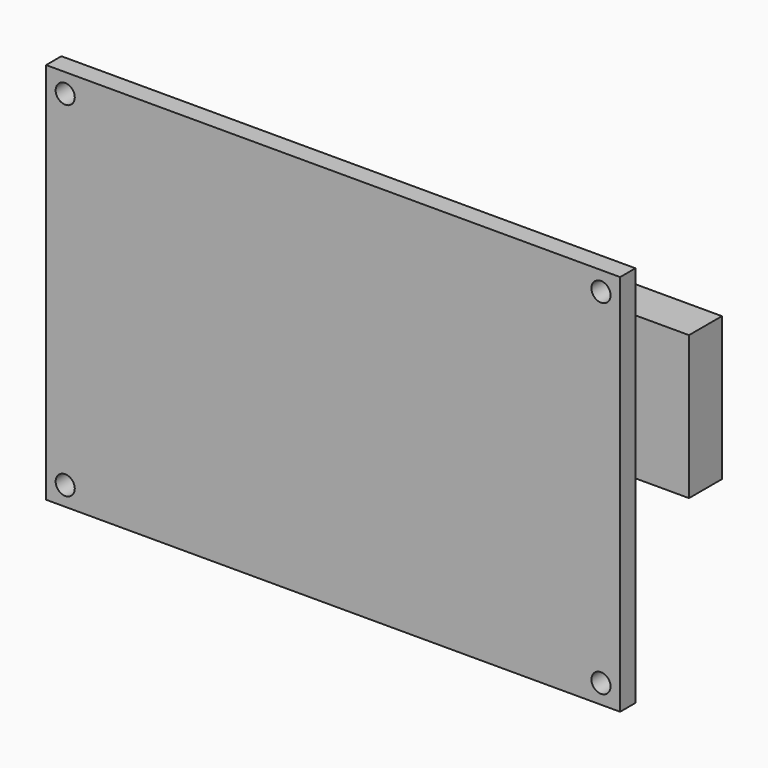
from build123d import *

# Parameters (mm, degrees)
F0_W     = 60
F0_H     = 40
F0_R     = 1
F1_DEPTH = 2
F2_W     = 8.5
F2_H     = 19
F3_DEPTH = 4
F4_W     = 34
F4_H     = 19
F5_DEPTH = 7
F6_W     = 2.5
F6_H     = 15
F6_W_2   = 6.5
F7_DEPTH = 4.3


with BuildPart() as f1:
    # F0 (on Front) → F1 (new body)
    with BuildSketch(Plane.XZ):
        Rectangle(F0_W, F0_H)
        with Locations((-28, -18)):
            Circle(F0_R, mode=Mode.SUBTRACT)
        with Locations((28, -18)):
            Circle(F0_R, mode=Mode.SUBTRACT)
        with Locations((-28, 18)):
            Circle(F0_R, mode=Mode.SUBTRACT)
        with Locations((28, 18)):
            Circle(F0_R, mode=Mode.SUBTRACT)
    extrude(amount=F1_DEPTH)

    # F2 (on face) → F3 (join)
    with BuildSketch(Plane(origin=(0, 0, 0), x_dir=(-1, 0, 0), z_dir=(0, 1, 0))):
        with Locations((20.25, 4.5)):
            Rectangle(F2_W, F2_H)
    extrude(amount=F3_DEPTH)

    # F4 (on face) → F5 (join)
    with BuildSketch(Plane(origin=(0, 0, 0), x_dir=(-1, 0, 0), z_dir=(0, 1, 0))):
        with Locations((-6.5, 3.5)):
            Rectangle(F4_W, F4_H)
    extrude(amount=F5_DEPTH)

    # F6 (on face) → F7 (join)
    with BuildSketch(Plane(origin=(0, 7, 0), x_dir=(-1, 0, 0), z_dir=(0, 1, 0))):
        with Locations((-22.25, 3.5)):
            Rectangle(F6_W, F6_H)
        with Locations((-26.75, 3.5)):
            Rectangle(F6_W_2, F6_H)
    extrude(amount=F7_DEPTH)


solid = f1.part
